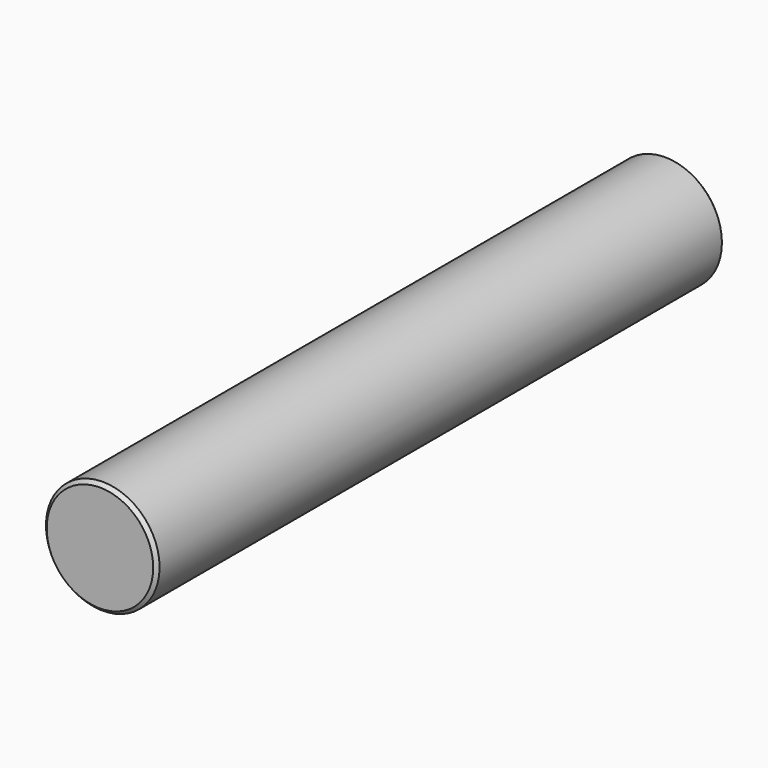
from build123d import *

# Parameters (mm, degrees)
F0_R     = 8
F1_DEPTH = 50
F2_SIZE  = 0.5


with BuildPart() as f1:
    # F0 (on Front) → F1 (new body, symmetric)
    with BuildSketch(Plane.XZ):
        Circle(F0_R)
    extrude(amount=F1_DEPTH, both=True)

    # F2
    f2_edges = [f1.edges().sort_by_distance(p)[0] for p in [
        (-8, 50, 0),
        (8, 0, 0),
        (-8, -50, 0),
    ]]
    chamfer(f2_edges, length=F2_SIZE)


solid = f1.part
